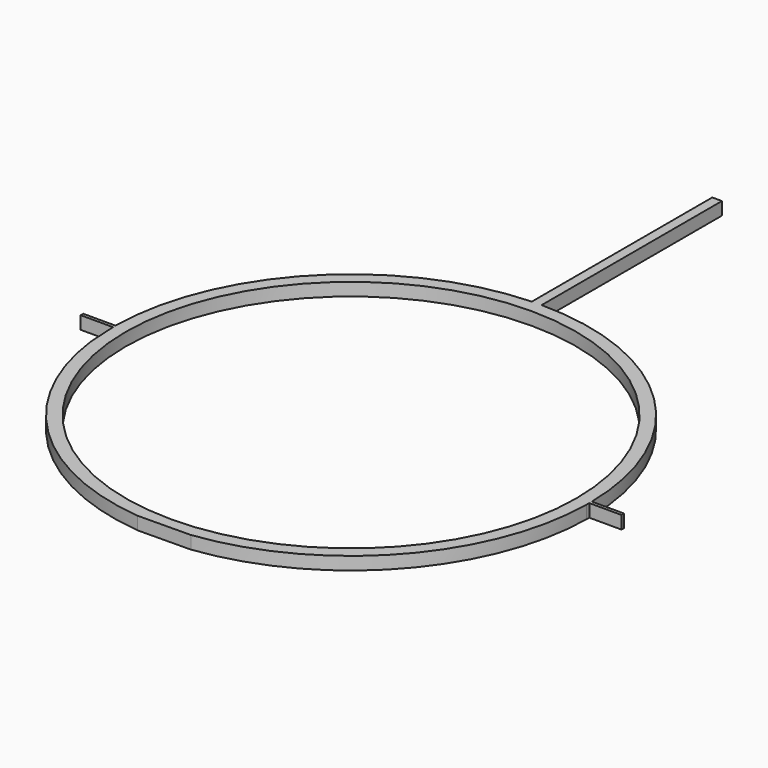
from build123d import *

# Parameters (mm, degrees)
F0_R     = 35
F1_DEPTH = 1


with BuildPart() as f1:
    # F0 (on Top) → F1 (new body, symmetric)
    with BuildSketch(Plane.XY):
        with BuildLine():
            Line((-1.5, 72), (-1.5, 36.969582))
            ThreePointArc((-1.5, 36.969582), (-26.514279, 25.806841), (-36.996623, 0.499897))
            Line((-36.996623, 0.499897), (-41.996623, 0.499897))
            Line((-41.996623, 0.499897), (-41.986487, 0))
            Line((-41.986487, 0), (-36.968242, 0))
            Line((-36.968242, 0), (-36.702311, -4.684058))
            ThreePointArc((-36.702311, -4.684058), (-25.811947, -26.509307), (-3.704199, -36.814113))
            Line((-3.704199, -36.814113), (4.491361, -36.726389))
            ThreePointArc((4.491361, -36.726389), (27.539081, -24.710302), (36.996621, -0.5))
            Line((36.996621, -0.5), (36.996621, 0))
            Line((36.996621, 0), (41.996621, 0))
            Line((41.996621, 0), (41.996621, 0.5))
            Line((41.996621, 0.5), (36.996621, 0.5))
            ThreePointArc((36.996621, 0.5), (25.985573, 26.339134), (0, 37))
            Line((0, 37), (0, 72))
            Line((0, 72), (-1.5, 72))
        make_face()
        Circle(F0_R, mode=Mode.SUBTRACT)
    extrude(amount=F1_DEPTH, both=True)


solid = f1.part
